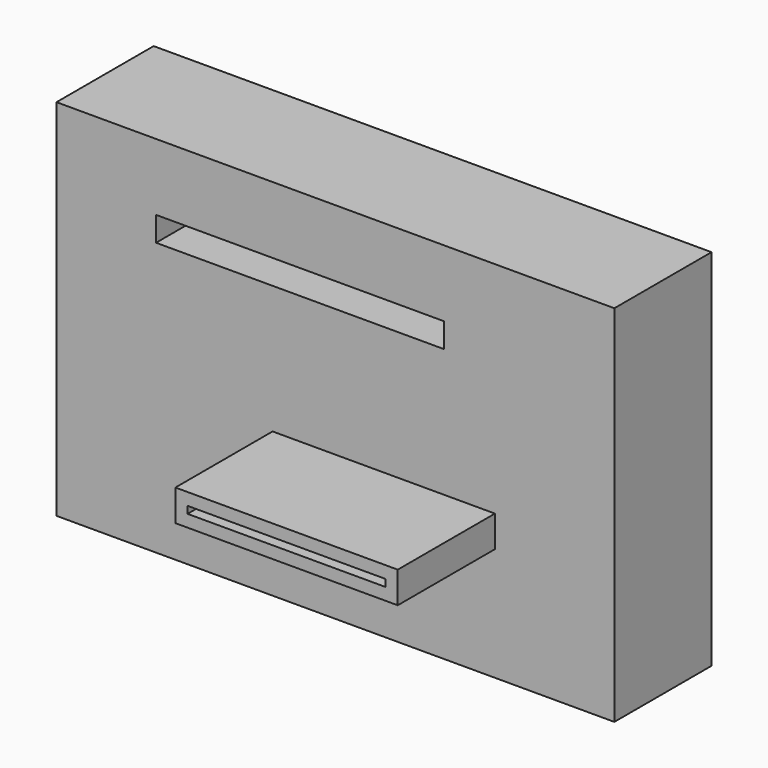
from build123d import *

# Parameters (mm, degrees)
F0_W     = 116.6634205729
F0_H     = 76.1592537165
F0_W_2   = 60.1857760921
F0_H_2   = 5.1343319938
F1_DEPTH = 25.4
F2_W     = 46.4942213148
F2_H     = 6.5605351701
F3_DEPTH = 25.4
F4_T     = -2.54


with BuildPart() as f1:
    # F0 (on Front) → F1 (new body)
    with BuildSketch(Plane.XZ):
        with Locations((27.2404802963, -5.7048127055)):
            Rectangle(F0_W, F0_H)
        with Locations((19.8242249899, 15.8308562823)):
            Rectangle(F0_W_2, F0_H_2, mode=Mode.SUBTRACT)
    extrude(amount=F1_DEPTH)

    # F2 (on face) → F3 (join)
    with BuildSketch(Plane.XZ.offset(25.4)):
        with Locations((37.3461479321, -16.8291977607)):
            Rectangle(F2_W, F2_H)
    extrude(amount=F3_DEPTH)

    # F4
    f4_openings = [f1.faces().sort_by_distance(p)[0] for p in [
        (37.346148, -50.8, -16.829198),
    ]]
    offset(amount=F4_T, openings=f4_openings, kind=Kind.INTERSECTION)


solid = f1.part
